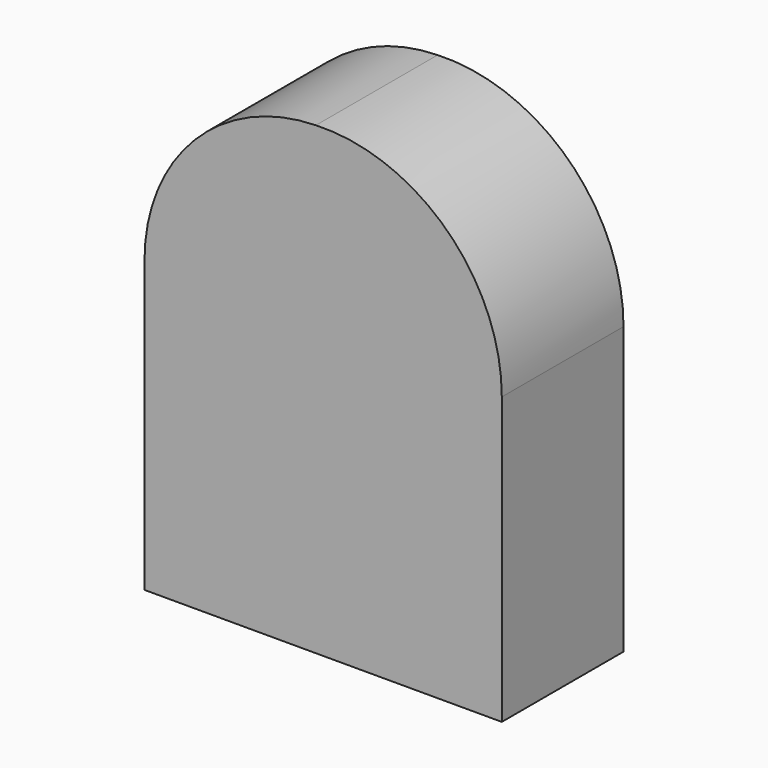
from build123d import *

# Parameters (mm, degrees)
F0_W     = 59.654813
F0_H     = 47.764158
F1_DEPTH = 25.4


with BuildPart() as f1:
    # F0 (on Front) → F1 (new body)
    with BuildSketch(Plane.XZ):
        with Locations((-46.45417, -16.122923)):
            Rectangle(F0_W, F0_H)
        with BuildLine():
            ThreePointArc((-47.663387, 37.586562), (-67.935449, 28.81476), (-76.281577, 8.363766))
            Line((-76.281577, 8.363766), (-76.281577, 7.759156))
            Line((-76.281577, 7.759156), (-16.626764, 7.759156))
            ThreePointArc((-16.626764, 7.759156), (-25.79335, 29.282086), (-47.663387, 37.586562))
        make_face()
    extrude(amount=F1_DEPTH)


solid = f1.part
